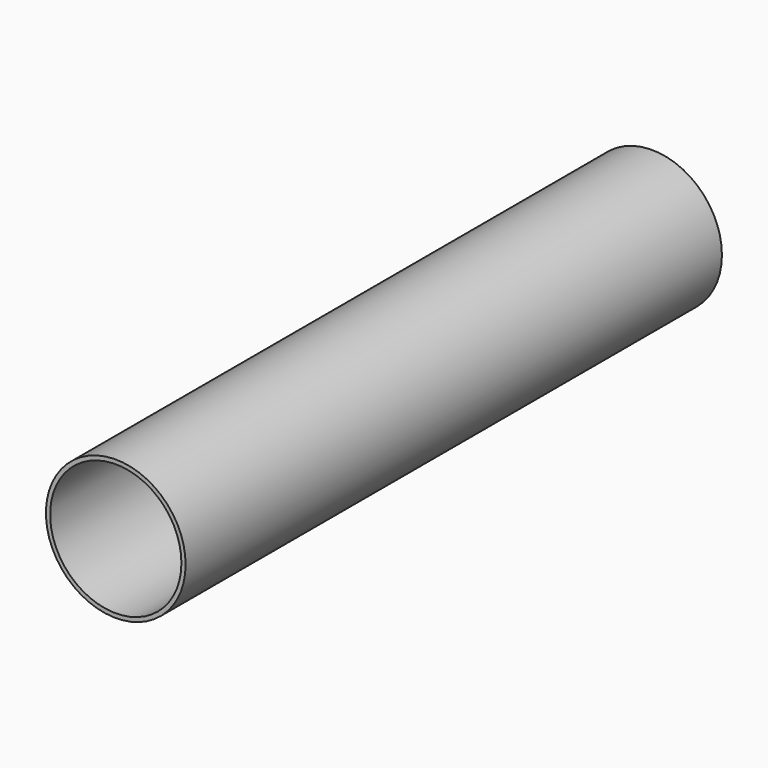
from build123d import *

# Parameters (mm, degrees)
F0_R     = 31.75
F1_DEPTH = 304.8
F2_R     = 29.845
F3_DEPTH = 304.8


with BuildPart() as f1:
    # F0 (on Front) → F1 (new body)
    with BuildSketch(Plane.XZ):
        Circle(F0_R)
    extrude(amount=-F1_DEPTH)

    # F2 (on Front) → F3 (cut)
    with BuildSketch(Plane.XZ):
        Circle(F2_R)
        Circle(F2_R)
    extrude(amount=-F3_DEPTH, mode=Mode.SUBTRACT)


solid = f1.part
